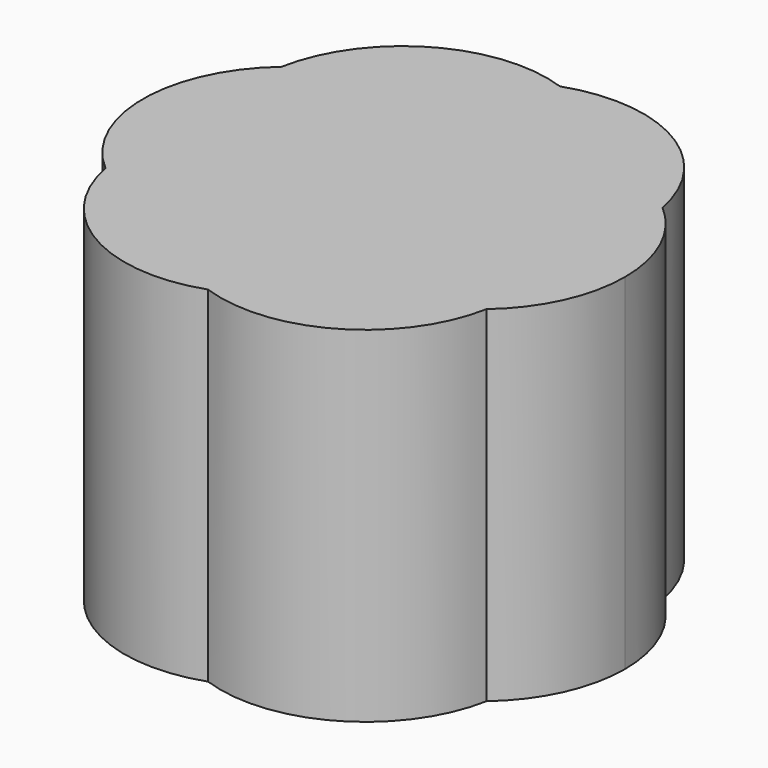
from build123d import *

# Parameters (mm, degrees)
F1_DEPTH = 5


with BuildPart() as f1:
    # F0 (on Top) → F1 (new body)
    with BuildSketch(Plane.XY):
        with BuildLine():
            ThreePointArc((0, 1.5728045453), (0.5622224725, 1.9293238894), (1.2077869163, 2.0919483038))
            ThreePointArc((1.2077869163, 2.0919483038), (0.7144164106, 2.7611710623), (0, 3.186474188))
            ThreePointArc((0, 3.186474188), (-0.7144164106, 2.7611710623), (-1.2077869163, 2.0919483038))
            ThreePointArc((-1.2077869163, 2.0919483038), (-0.5622224725, 1.9293238894), (0, 1.5728045453))
        make_face()
        with BuildLine():
            ThreePointArc((-1.2077869163, 2.0919483038), (-0.7144164106, 2.7611710623), (0, 3.186474188))
            ThreePointArc((0, 3.186474188), (-1.7457524456, 3.0237319332), (-2.7595675953, 1.593237094))
            ThreePointArc((-2.7595675953, 1.593237094), (-2.0340360789, 1.9992882916), (-1.2077869163, 2.0919483038))
        make_face()
        with BuildLine():
            ThreePointArc((-1.3620886914, 0.7864022727), (-1.3897322641, 1.4515608884), (-1.2077869163, 2.0919483038))
            ThreePointArc((-1.2077869163, 2.0919483038), (-2.0340360789, 1.9992882916), (-2.7595675953, 1.593237094))
            ThreePointArc((-2.7595675953, 1.593237094), (-2.7484524894, 0.7618827707), (-2.4155738326, 0))
            ThreePointArc((-2.4155738326, 0), (-1.9519547366, 0.4777630009), (-1.3620886914, 0.7864022727))
        make_face()
        with BuildLine():
            ThreePointArc((-0.5120344707, 0.8868697185), (-0.291336695, 1.256202291), (0, 1.5728045453))
            ThreePointArc((0, 1.5728045453), (-0.5622224725, 1.9293238894), (-1.2077869163, 2.0919483038))
            ThreePointArc((-1.2077869163, 2.0919483038), (-1.3897322641, 1.4515608884), (-1.3620886914, 0.7864022727))
            ThreePointArc((-1.3620886914, 0.7864022727), (-0.9422347488, 0.8804061244), (-0.5120344707, 0.8868697185))
        make_face()
        with BuildLine():
            ThreePointArc((-1.0240689414, 0), (-1.2335714437, 0.3757961666), (-1.3620886914, 0.7864022727))
            ThreePointArc((-1.3620886914, 0.7864022727), (-1.9519547366, 0.4777630009), (-2.4155738326, 0))
            ThreePointArc((-2.4155738326, 0), (-1.9519547366, -0.4777630009), (-1.3620886914, -0.7864022727))
            ThreePointArc((-1.3620886914, -0.7864022727), (-1.2335714437, -0.3757961666), (-1.0240689414, 0))
        make_face()
        with BuildLine():
            ThreePointArc((-2.4155738326, 0), (-2.7484524894, 0.7618827707), (-2.7595675953, 1.593237094))
            ThreePointArc((-2.7595675953, 1.593237094), (-3.4915048912, 0), (-2.7595675953, -1.593237094))
            ThreePointArc((-2.7595675953, -1.593237094), (-2.7484524894, -0.7618827707), (-2.4155738326, 0))
        make_face()
        with BuildLine():
            ThreePointArc((-2.4155738326, 0), (-2.7484524894, -0.7618827707), (-2.7595675953, -1.593237094))
            ThreePointArc((-2.7595675953, -1.593237094), (-2.0340360789, -1.9992882916), (-1.2077869163, -2.0919483038))
            ThreePointArc((-1.2077869163, -2.0919483038), (-1.3897322641, -1.4515608884), (-1.3620886914, -0.7864022727))
            ThreePointArc((-1.3620886914, -0.7864022727), (-1.9519547366, -0.4777630009), (-2.4155738326, 0))
        make_face()
        with BuildLine():
            ThreePointArc((-2.7595675953, -1.593237094), (-1.7457524456, -3.0237319332), (0, -3.186474188))
            ThreePointArc((0, -3.186474188), (-0.7144164106, -2.7611710623), (-1.2077869163, -2.0919483038))
            ThreePointArc((-1.2077869163, -2.0919483038), (-2.0340360789, -1.9992882916), (-2.7595675953, -1.593237094))
        make_face()
        with BuildLine():
            ThreePointArc((0, -3.186474188), (0.7144164106, -2.7611710623), (1.2077869163, -2.0919483038))
            ThreePointArc((1.2077869163, -2.0919483038), (0.5622224725, -1.9293238894), (0, -1.5728045453))
            ThreePointArc((0, -1.5728045453), (-0.5622224725, -1.9293238894), (-1.2077869163, -2.0919483038))
            ThreePointArc((-1.2077869163, -2.0919483038), (-0.7144164106, -2.7611710623), (0, -3.186474188))
        make_face()
        with BuildLine():
            ThreePointArc((-1.2077869163, -2.0919483038), (-0.5622224725, -1.9293238894), (0, -1.5728045453))
            ThreePointArc((0, -1.5728045453), (-0.291336695, -1.256202291), (-0.5120344707, -0.8868697185))
            ThreePointArc((-0.5120344707, -0.8868697185), (-0.9422347488, -0.8804061244), (-1.3620886914, -0.7864022727))
            ThreePointArc((-1.3620886914, -0.7864022727), (-1.3897322641, -1.4515608884), (-1.2077869163, -2.0919483038))
        make_face()
        with BuildLine():
            ThreePointArc((-1.3620886914, -0.7864022727), (-0.9422347488, -0.8804061244), (-0.5120344707, -0.8868697185))
            ThreePointArc((-0.5120344707, -0.8868697185), (-0.6077834004, -0.6425311876), (-0.6723102585, -0.3881585087))
            ThreePointArc((-0.6723102585, -0.3881585087), (-0.8603400314, -0.2050902709), (-1.0240689414, 0))
            ThreePointArc((-1.0240689414, 0), (-1.2335714437, -0.3757961666), (-1.3620886914, -0.7864022727))
        make_face()
        with BuildLine():
            ThreePointArc((-0.6723102585, 0.3881585087), (-0.6077834004, 0.6425311876), (-0.5120344707, 0.8868697185))
            ThreePointArc((-0.5120344707, 0.8868697185), (-0.9422347488, 0.8804061244), (-1.3620886914, 0.7864022727))
            ThreePointArc((-1.3620886914, 0.7864022727), (-1.2335714437, 0.3757961666), (-1.0240689414, 0))
            ThreePointArc((-1.0240689414, 0), (-0.8603400314, 0.2050902709), (-0.6723102585, 0.3881585087))
        make_face()
        with BuildLine():
            ThreePointArc((0, 0.7763170174), (-0.3542475544, 0.6135747627), (-0.6723102585, 0.3881585087))
            ThreePointArc((-0.6723102585, 0.3881585087), (-0.7084951088, 0), (-0.6723102585, -0.3881585087))
            ThreePointArc((-0.6723102585, -0.3881585087), (-0.3542475544, -0.6135747627), (0, -0.7763170174))
            ThreePointArc((0, -0.7763170174), (0.3542475544, -0.6135747627), (0.6723102585, -0.3881585087))
            ThreePointArc((0.6723102585, -0.3881585087), (0.6994293275, -0.1949207347), (0.7084951088, 0))
            ThreePointArc((0.7084951088, 0), (0.6994293275, 0.1949207347), (0.6723102585, 0.3881585087))
            ThreePointArc((0.6723102585, 0.3881585087), (0.3542475544, 0.6135747627), (0, 0.7763170174))
        make_face()
        with BuildLine():
            ThreePointArc((0.5120344707, 0.8868697185), (0.291336695, 1.256202291), (0, 1.5728045453))
            ThreePointArc((0, 1.5728045453), (-0.291336695, 1.256202291), (-0.5120344707, 0.8868697185))
            ThreePointArc((-0.5120344707, 0.8868697185), (-0.252556631, 0.8476214585), (0, 0.7763170174))
            ThreePointArc((0, 0.7763170174), (0.252556631, 0.8476214585), (0.5120344707, 0.8868697185))
        make_face()
        with BuildLine():
            ThreePointArc((1.4042475544, 1.2050785853), (1.3545441988, 1.6592632063), (1.2077869163, 2.0919483038))
            ThreePointArc((1.2077869163, 2.0919483038), (0.5622224725, 1.9293238894), (0, 1.5728045453))
            ThreePointArc((0, 1.5728045453), (0.291336695, 1.256202291), (0.5120344707, 0.8868697185))
            ThreePointArc((0.5120344707, 0.8868697185), (0.9422347488, 0.8804061244), (1.3620886914, 0.7864022727))
            ThreePointArc((1.3620886914, 0.7864022727), (1.3936812561, 0.9946818027), (1.4042475544, 1.2050785853))
        make_face()
        with BuildLine():
            ThreePointArc((1.2077869163, 2.0919483038), (2.0340360789, 1.9992882916), (2.7595675953, 1.593237094))
            ThreePointArc((2.7595675953, 1.593237094), (1.7457524456, 3.0237319332), (0, 3.186474188))
            ThreePointArc((0, 3.186474188), (0.7144164106, 2.7611710623), (1.2077869163, 2.0919483038))
        make_face()
        with BuildLine():
            ThreePointArc((2.7957524456, 1.2050785853), (2.7866866644, 1.39999932), (2.7595675953, 1.593237094))
            ThreePointArc((2.7595675953, 1.593237094), (2.0340360789, 1.9992882916), (1.2077869163, 2.0919483038))
            ThreePointArc((1.2077869163, 2.0919483038), (1.3545441988, 1.6592632063), (1.4042475544, 1.2050785853))
            ThreePointArc((1.4042475544, 1.2050785853), (1.3936812561, 0.9946818027), (1.3620886914, 0.7864022727))
            ThreePointArc((1.3620886914, 0.7864022727), (1.9519547366, 0.4777630009), (2.4155738326, 0))
            ThreePointArc((2.4155738326, 0), (2.6984537355, 0.5732656829), (2.7957524456, 1.2050785853))
        make_face()
        with BuildLine():
            ThreePointArc((2.7595675953, -1.593237094), (3.2997674097, -0.8766608014), (3.4915048912, 0))
            ThreePointArc((3.4915048912, 0), (3.2997674097, 0.8766608014), (2.7595675953, 1.593237094))
            ThreePointArc((2.7595675953, 1.593237094), (2.7866866644, 1.39999932), (2.7957524456, 1.2050785853))
            ThreePointArc((2.7957524456, 1.2050785853), (2.6984537355, 0.5732656829), (2.4155738326, 0))
            ThreePointArc((2.4155738326, 0), (2.6984537355, -0.5732656829), (2.7957524456, -1.2050785853))
            ThreePointArc((2.7957524456, -1.2050785853), (2.7866866644, -1.39999932), (2.7595675953, -1.593237094))
        make_face()
        with BuildLine():
            ThreePointArc((1.2077869163, -2.0919483038), (2.0340360789, -1.9992882916), (2.7595675953, -1.593237094))
            ThreePointArc((2.7595675953, -1.593237094), (2.7866866644, -1.39999932), (2.7957524456, -1.2050785853))
            ThreePointArc((2.7957524456, -1.2050785853), (2.6984537355, -0.5732656829), (2.4155738326, 0))
            ThreePointArc((2.4155738326, 0), (1.9519547366, -0.4777630009), (1.3620886914, -0.7864022727))
            ThreePointArc((1.3620886914, -0.7864022727), (1.3936812561, -0.9946818027), (1.4042475544, -1.2050785853))
            ThreePointArc((1.4042475544, -1.2050785853), (1.3545441988, -1.6592632063), (1.2077869163, -2.0919483038))
        make_face()
        with BuildLine():
            ThreePointArc((0, -3.186474188), (1.7457524456, -3.0237319332), (2.7595675953, -1.593237094))
            ThreePointArc((2.7595675953, -1.593237094), (2.0340360789, -1.9992882916), (1.2077869163, -2.0919483038))
            ThreePointArc((1.2077869163, -2.0919483038), (0.7144164106, -2.7611710623), (0, -3.186474188))
        make_face()
        with BuildLine():
            ThreePointArc((0, -1.5728045453), (0.5622224725, -1.9293238894), (1.2077869163, -2.0919483038))
            ThreePointArc((1.2077869163, -2.0919483038), (1.3545441988, -1.6592632063), (1.4042475544, -1.2050785853))
            ThreePointArc((1.4042475544, -1.2050785853), (1.3936812561, -0.9946818027), (1.3620886914, -0.7864022727))
            ThreePointArc((1.3620886914, -0.7864022727), (0.9422347488, -0.8804061244), (0.5120344707, -0.8868697185))
            ThreePointArc((0.5120344707, -0.8868697185), (0.291336695, -1.256202291), (0, -1.5728045453))
        make_face()
        with BuildLine():
            ThreePointArc((0.5120344707, -0.8868697185), (0.9422347488, -0.8804061244), (1.3620886914, -0.7864022727))
            ThreePointArc((1.3620886914, -0.7864022727), (1.2335714437, -0.3757961666), (1.0240689414, 0))
            ThreePointArc((1.0240689414, 0), (0.8603400314, -0.2050902709), (0.6723102585, -0.3881585087))
            ThreePointArc((0.6723102585, -0.3881585087), (0.6077834004, -0.6425311876), (0.5120344707, -0.8868697185))
        make_face()
        with BuildLine():
            ThreePointArc((1.3620886914, -0.7864022727), (1.9519547366, -0.4777630009), (2.4155738326, 0))
            ThreePointArc((2.4155738326, 0), (1.9519547366, 0.4777630009), (1.3620886914, 0.7864022727))
            ThreePointArc((1.3620886914, 0.7864022727), (1.2335714437, 0.3757961666), (1.0240689414, 0))
            ThreePointArc((1.0240689414, 0), (1.2335714437, -0.3757961666), (1.3620886914, -0.7864022727))
        make_face()
        with BuildLine():
            ThreePointArc((1.3620886914, 0.7864022727), (0.9422347488, 0.8804061244), (0.5120344707, 0.8868697185))
            ThreePointArc((0.5120344707, 0.8868697185), (0.6077834004, 0.6425311876), (0.6723102585, 0.3881585087))
            ThreePointArc((0.6723102585, 0.3881585087), (0.8603400314, 0.2050902709), (1.0240689414, 0))
            ThreePointArc((1.0240689414, 0), (1.2335714437, 0.3757961666), (1.3620886914, 0.7864022727))
        make_face()
        with BuildLine():
            ThreePointArc((-0.5120344707, -0.8868697185), (-0.291336695, -1.256202291), (0, -1.5728045453))
            ThreePointArc((0, -1.5728045453), (0.291336695, -1.256202291), (0.5120344707, -0.8868697185))
            ThreePointArc((0.5120344707, -0.8868697185), (0.252556631, -0.8476214585), (0, -0.7763170174))
            ThreePointArc((0, -0.7763170174), (-0.252556631, -0.8476214585), (-0.5120344707, -0.8868697185))
        make_face()
        with BuildLine():
            ThreePointArc((-0.6723102585, -0.3881585087), (-0.6077834004, -0.6425311876), (-0.5120344707, -0.8868697185))
            ThreePointArc((-0.5120344707, -0.8868697185), (-0.252556631, -0.8476214585), (0, -0.7763170174))
            ThreePointArc((0, -0.7763170174), (-0.3542475544, -0.6135747627), (-0.6723102585, -0.3881585087))
        make_face()
        with BuildLine():
            ThreePointArc((-0.6723102585, -0.3881585087), (-0.7084951088, 0), (-0.6723102585, 0.3881585087))
            ThreePointArc((-0.6723102585, 0.3881585087), (-0.8603400314, 0.2050902709), (-1.0240689414, 0))
            ThreePointArc((-1.0240689414, 0), (-0.8603400314, -0.2050902709), (-0.6723102585, -0.3881585087))
        make_face()
        with BuildLine():
            ThreePointArc((0, 0.7763170174), (-0.252556631, 0.8476214585), (-0.5120344707, 0.8868697185))
            ThreePointArc((-0.5120344707, 0.8868697185), (-0.6077834004, 0.6425311876), (-0.6723102585, 0.3881585087))
            ThreePointArc((-0.6723102585, 0.3881585087), (-0.3542475544, 0.6135747627), (0, 0.7763170174))
        make_face()
        with BuildLine():
            ThreePointArc((0.6723102585, 0.3881585087), (0.6077834004, 0.6425311876), (0.5120344707, 0.8868697185))
            ThreePointArc((0.5120344707, 0.8868697185), (0.252556631, 0.8476214585), (0, 0.7763170174))
            ThreePointArc((0, 0.7763170174), (0.3542475544, 0.6135747627), (0.6723102585, 0.3881585087))
        make_face()
        with BuildLine():
            ThreePointArc((1.0240689414, 0), (0.8603400314, 0.2050902709), (0.6723102585, 0.3881585087))
            ThreePointArc((0.6723102585, 0.3881585087), (0.6994293275, 0.1949207347), (0.7084951088, 0))
            ThreePointArc((0.7084951088, 0), (0.6994293275, -0.1949207347), (0.6723102585, -0.3881585087))
            ThreePointArc((0.6723102585, -0.3881585087), (0.8603400314, -0.2050902709), (1.0240689414, 0))
        make_face()
        with BuildLine():
            ThreePointArc((0, -0.7763170174), (0.252556631, -0.8476214585), (0.5120344707, -0.8868697185))
            ThreePointArc((0.5120344707, -0.8868697185), (0.6077834004, -0.6425311876), (0.6723102585, -0.3881585087))
            ThreePointArc((0.6723102585, -0.3881585087), (0.3542475544, -0.6135747627), (0, -0.7763170174))
        make_face()
    extrude(amount=F1_DEPTH)


solid = f1.part
